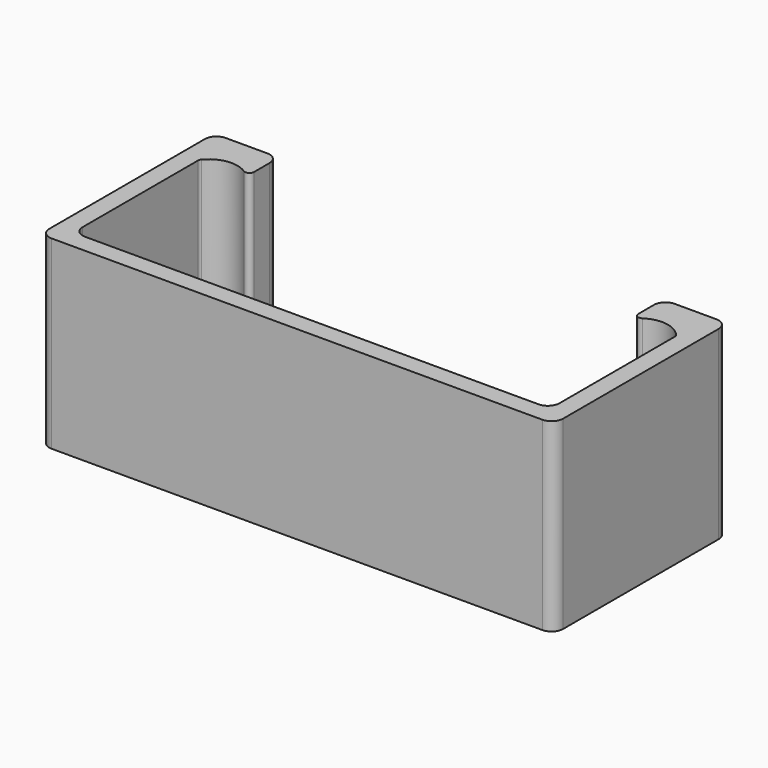
from build123d import *

# Parameters (mm, degrees)
F1_DEPTH = 8
F2_R     = 0.5
F3_R     = 0.2


with BuildPart() as f1:
    # F0 (on Top) → F1 (new body)
    with BuildSketch(Plane.XY):
        Polygon((0, 8.6), (0, 0), (0.8, 0), (0.8, 6.8), (0.8, 8.6), align=None)
        Polygon((0.8, 0), (0, 0), (0, -0.8), (22.2, -0.8), (22.2, 0), (21.4, 0), align=None)
        Polygon((21.4, 6.8), (21.4, 0), (22.2, 0), (22.2, 8.6), (21.4, 8.6), align=None)
        with BuildLine():
            ThreePointArc((19.4, 6.8), (20.4, 7.3), (21.4, 6.8))
            Line((21.4, 6.8), (21.4, 8.6))
            Line((21.4, 8.6), (19.4, 8.6))
            Line((19.4, 8.6), (19.4, 6.8))
        make_face()
        with BuildLine():
            Line((0.8, 8.6), (0.8, 6.8))
            ThreePointArc((0.8, 6.8), (1.8, 7.3), (2.8, 6.8))
            Line((2.8, 6.8), (2.8, 8.6))
            Line((2.8, 8.6), (0.8, 8.6))
        make_face()
    extrude(amount=F1_DEPTH)

    # F2
    f2_edges = [f1.edges().sort_by_distance(p)[0] for p in [
        (22.2, -0.8, 4),
        (0, -0.8, 4),
        (22.2, 8.6, 4),
        (19.4, 8.6, 4),
        (0, 8.6, 4),
        (2.8, 8.6, 4),
        (0.8, 0, 4),
        (21.4, 0, 4),
    ]]
    fillet(f2_edges, radius=F2_R)

    # F3
    f3_edges = [f1.edges().sort_by_distance(p)[0] for p in [
        (2.8, 6.8, 4),
        (0.8, 6.8, 4),
        (19.4, 6.8, 4),
        (21.4, 6.8, 4),
    ]]
    fillet(f3_edges, radius=F3_R)


solid = f1.part
